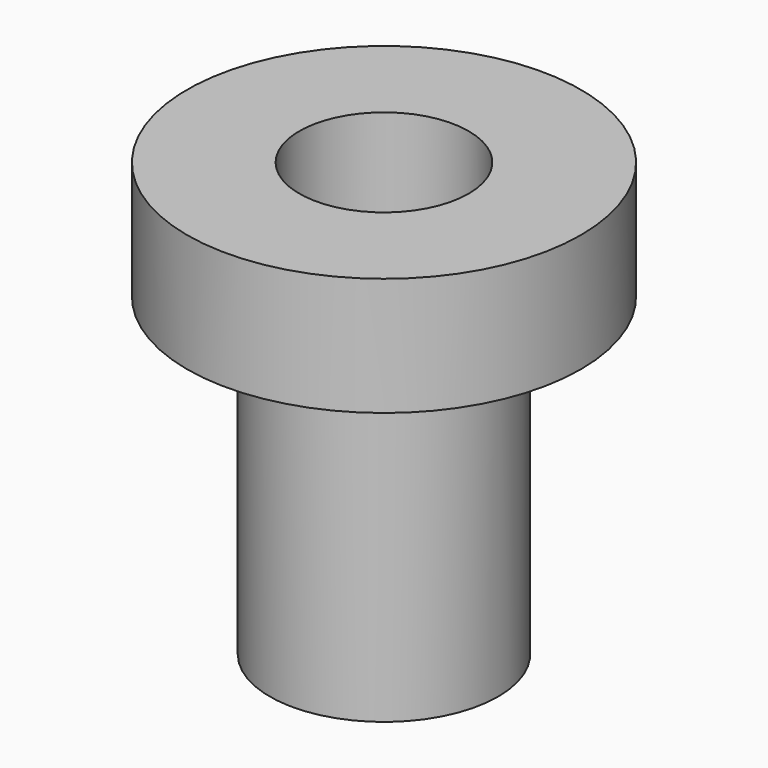
from build123d import *

# Parameters (mm, degrees)
F0_R     = 5
F0_R_2   = 2.9
F0_R_3   = 2.15
F1_DEPTH = 3
F2_DEPTH = 5
F3_R     = 2.9
F4_DEPTH = 3


with BuildPart() as f1:
    # F0 (on Top) → F1 (new body)
    with BuildSketch(Plane.XY):
        Circle(F0_R)
        Circle(F0_R_2, mode=Mode.SUBTRACT)
        Circle(F0_R_2)
        Circle(F0_R_3, mode=Mode.SUBTRACT)
    extrude(amount=F1_DEPTH)

    # F0 (on Top) → F2 (join)
    with BuildSketch(Plane.XY):
        Circle(F0_R_2)
        Circle(F0_R_3, mode=Mode.SUBTRACT)
    extrude(amount=-F2_DEPTH)

    # F3 (on face) → F4 (join)
    with BuildSketch(Plane(origin=(0, 0, -5), x_dir=(1, 0, 0), z_dir=(0, 0, -1))):
        Circle(F3_R)
    extrude(amount=F4_DEPTH)


solid = f1.part
